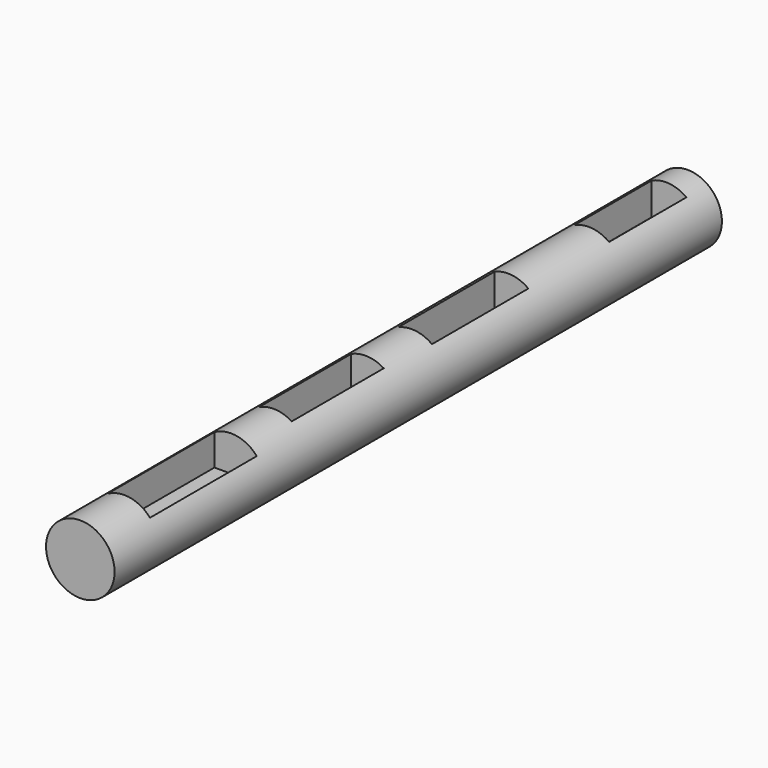
from build123d import *

# Parameters (mm, degrees)
F0_R     = 14
F1_DEPTH = 310
F3_W     = 14.182319
F3_H     = 39.444565
F3_W_2   = 13.73912
F3_H_2   = 49.19491
F3_W_3   = 13.295921
F3_H_3   = 46.978921
F3_W_4   = 17.2847
F3_H_4   = 54.513276
F4_DEPTH = 15


with BuildPart() as f1:
    # F0 (on Front) → F1 (new body)
    with BuildSketch(Plane.XZ):
        Circle(F0_R)
    extrude(amount=F1_DEPTH)

    # F3 (on offset) → F4 (cut)
    with BuildSketch(Plane.XY.offset(14.5)):
        with Locations((1.216165, -30.746452)):
            Rectangle(F3_W, F3_H)
        with Locations((1.437765, -116.283547)):
            Rectangle(F3_W_2, F3_H_2)
        with Locations((0.772966, -187.859922)):
            Rectangle(F3_W_3, F3_H_3)
        with Locations((1.880962, -260.32269)):
            Rectangle(F3_W_4, F3_H_4)
    extrude(amount=-F4_DEPTH, mode=Mode.SUBTRACT)


solid = f1.part
